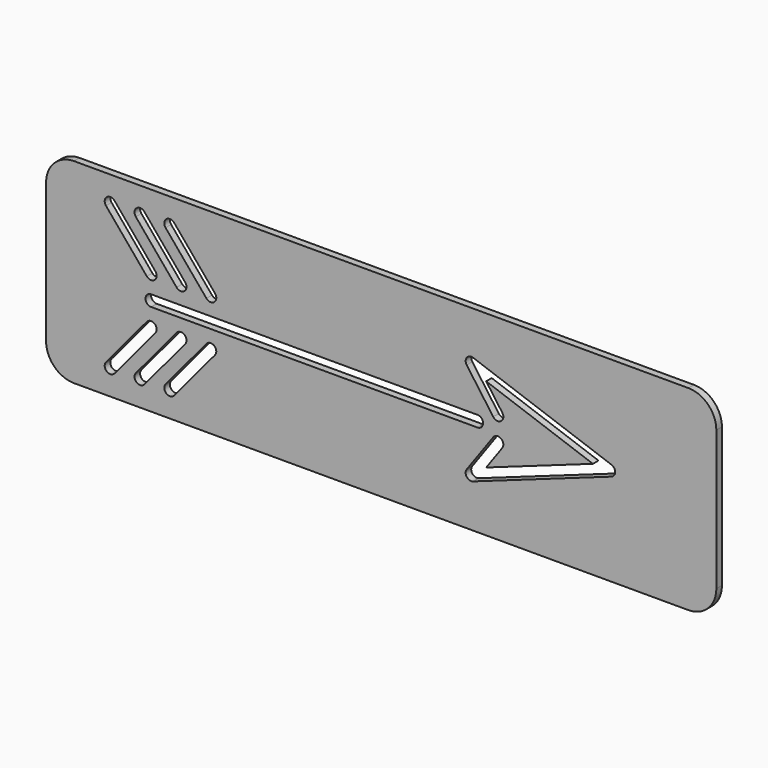
from build123d import *

# Parameters (mm, degrees)
F1_DEPTH = 3.175


with BuildPart() as f1:
    # F0 (on Front) → F1 (new body)
    with BuildSketch(Plane.XZ):
        with BuildLine():
            ThreePointArc((-152.4, -31.75), (-148.680256, -40.730256), (-139.7, -44.45))
            Line((-139.7, -44.45), (139.7, -44.45))
            ThreePointArc((139.7, -44.45), (148.680256, -40.730256), (152.4, -31.75))
            Line((152.4, -31.75), (152.4, 31.75))
            ThreePointArc((152.4, 31.75), (148.680256, 40.730256), (139.7, 44.45))
            Line((139.7, 44.45), (-139.7, 44.45))
            ThreePointArc((-139.7, 44.45), (-148.680256, 40.730256), (-152.4, 31.75))
            Line((-152.4, 31.75), (-152.4, -31.75))
        make_face()
        with BuildLine():
            ThreePointArc((-106.591578, -9.085882), (-103.013794, -8.765471), (-102.693383, -12.343254))
            Line((-102.693383, -12.343254), (-121.255448, -34.557033))
            ThreePointArc((-121.255448, -34.557033), (-124.833231, -34.877444), (-125.153643, -31.299661))
            Line((-125.153643, -31.299661), (-106.591578, -9.085882))
        make_face(mode=Mode.SUBTRACT)
        with BuildLine():
            ThreePointArc((-93.039692, -9.085882), (-89.461909, -8.765471), (-89.141497, -12.343254))
            Line((-89.141497, -12.343254), (-107.703562, -34.557033))
            ThreePointArc((-107.703562, -34.557033), (-111.281345, -34.877444), (-111.601757, -31.299661))
            Line((-111.601757, -31.299661), (-93.039692, -9.085882))
        make_face(mode=Mode.SUBTRACT)
        with BuildLine():
            ThreePointArc((-79.487806, -9.085882), (-75.910023, -8.765471), (-75.589611, -12.343254))
            Line((-75.589611, -12.343254), (-94.151676, -34.557033))
            ThreePointArc((-94.151676, -34.557033), (-97.72946, -34.877444), (-98.049871, -31.299661))
            Line((-98.049871, -31.299661), (-79.487806, -9.085882))
        make_face(mode=Mode.SUBTRACT)
        with BuildLine():
            Line((-121.255448, 34.557033), (-102.693383, 12.343254))
            ThreePointArc((-102.693383, 12.343254), (-103.013794, 8.765471), (-106.591578, 9.085882))
            Line((-106.591578, 9.085882), (-125.153643, 31.299661))
            ThreePointArc((-125.153643, 31.299661), (-124.833231, 34.877444), (-121.255448, 34.557033))
        make_face(mode=Mode.SUBTRACT)
        with BuildLine():
            Line((-107.703562, 34.557033), (-89.141497, 12.343254))
            ThreePointArc((-89.141497, 12.343254), (-89.461909, 8.765471), (-93.039692, 9.085882))
            Line((-93.039692, 9.085882), (-111.601757, 31.299661))
            ThreePointArc((-111.601757, 31.299661), (-111.281345, 34.877444), (-107.703562, 34.557033))
        make_face(mode=Mode.SUBTRACT)
        with BuildLine():
            Line((-94.151676, 34.557033), (-75.589611, 12.343254))
            ThreePointArc((-75.589611, 12.343254), (-75.910023, 8.765471), (-79.487806, 9.085882))
            Line((-79.487806, 9.085882), (-98.049871, 31.299661))
            ThreePointArc((-98.049871, 31.299661), (-97.72946, 34.877444), (-94.151676, 34.557033))
        make_face(mode=Mode.SUBTRACT)
        with BuildLine():
            Line((43.78479, -2.54), (-104.642481, -2.54))
            ThreePointArc((-104.642481, -2.54), (-107.182481, 0), (-104.642481, 2.54))
            Line((-104.642481, 2.54), (43.78479, 2.54))
            ThreePointArc((43.78479, 2.54), (46.32479, 0), (43.78479, -2.54))
        make_face(mode=Mode.SUBTRACT)
        with BuildLine():
            Line((47.736218, 17.258166), (55.06813, 7.045859))
            ThreePointArc((55.06813, 7.045859), (54.486173, 3.501212), (50.941525, 4.083169))
            Line((50.941525, 4.083169), (38.875384, 20.88958))
            ThreePointArc((38.875384, 20.88958), (38.908783, 23.897716), (41.789634, 24.764142))
            Line((41.789634, 24.764142), (104.705932, 2.393217))
            ThreePointArc((104.705932, 2.393217), (106.394984, 0), (104.705932, -2.393217))
            Line((104.705932, -2.393217), (41.789634, -24.764142))
            ThreePointArc((41.789634, -24.764142), (38.908783, -23.897716), (38.875384, -20.88958))
            Line((38.875384, -20.88958), (50.941525, -4.083169))
            ThreePointArc((50.941525, -4.083169), (54.486173, -3.501212), (55.06813, -7.045859))
            Line((55.06813, -7.045859), (47.736218, -17.258166))
            Line((47.736218, -17.258166), (96.27332, 0))
            Line((96.27332, 0), (47.736218, 17.258166))
        make_face(mode=Mode.SUBTRACT)
    extrude(amount=F1_DEPTH)


solid = f1.part
